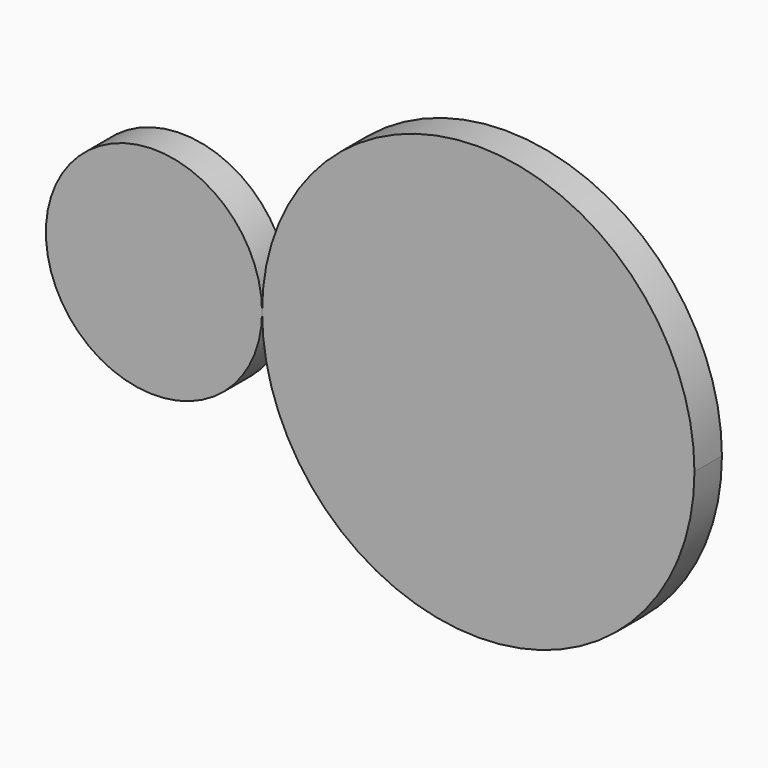
from build123d import *

# Parameters (mm, degrees)
F0_R     = 20
F1_R     = 10
F2_DEPTH = 3.175


with BuildPart() as f2:
    # F0 (on Front) + F1 (on Front) → F2 (new body)
    with BuildSketch(Plane.XZ):
        Circle(F0_R)
    with BuildSketch(Plane.XZ):
        with Locations((-30, 0)):
            Circle(F1_R)
    extrude(amount=F2_DEPTH)


solid = f2.part
